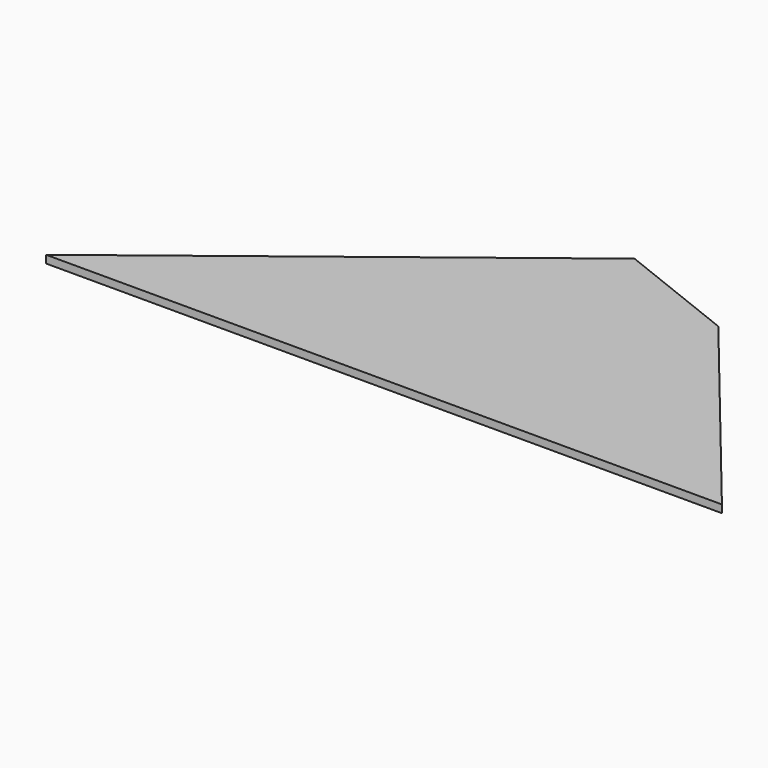
from build123d import *

# Parameters (mm, degrees)
F0_W     = 146
F0_H     = 4
F1_DEPTH = 175
F3_DEPTH = 4
F5_DEPTH = 4


with BuildPart() as f1:
    # F0 (on Right) → F1 (new body, symmetric)
    with BuildSketch(Plane.YZ):
        with Locations((-73, 2)):
            Rectangle(F0_W, F0_H)
    extrude(amount=F1_DEPTH, both=True)

    # F2 (on face) → F3 (cut, through all)
    with BuildSketch(Plane.XY.offset(4)):
        Polygon((-175, 0), (-175, -146), (12.940962, 0), align=None)
        Polygon((55.940962, 0), (175, -146), (175, 0), align=None)
    extrude(amount=-F3_DEPTH, mode=Mode.SUBTRACT)

    # F4 (on face) → F5 (cut, through all)
    with BuildSketch(Plane.XY.offset(4)):
        Polygon((55.940962, 0), (12.940962, 0), (76.425021, -25.119241), align=None)
    extrude(amount=-F5_DEPTH, mode=Mode.SUBTRACT)


solid = f1.part
